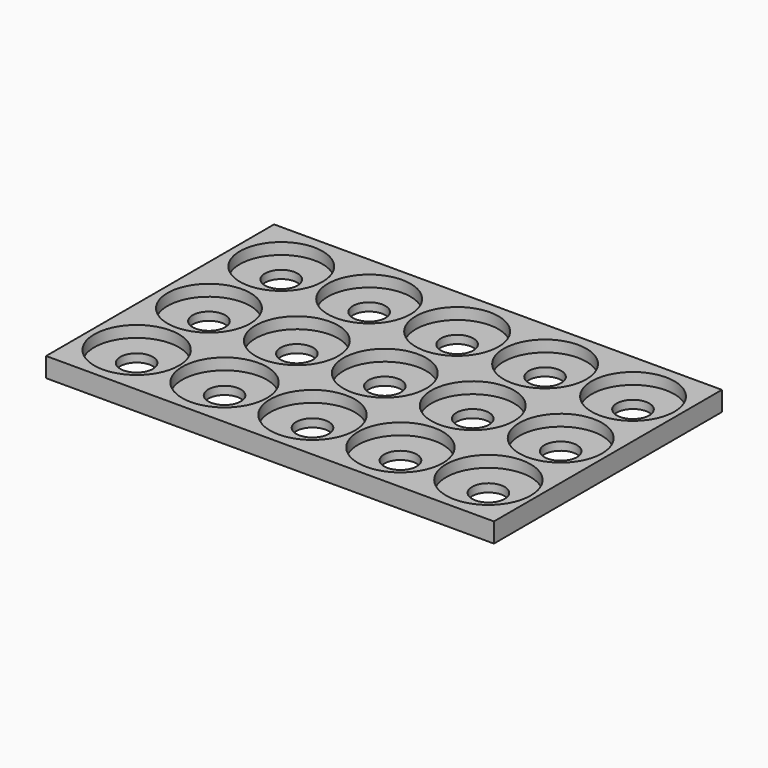
from build123d import *

# Parameters (mm, degrees)
F0_W     = 275
F0_H     = 175
F1_DEPTH = 12
F2_R     = 25.4
F2_R_2   = 10
F2_R_3   = 26
F3_DEPTH = 7
F4_DEPTH = 25


with BuildPart() as f1:
    # F0 (on Top) → F1 (new body)
    with BuildSketch(Plane.XY):
        with Locations((79.5600198209, 48.7740390003)):
            Rectangle(F0_W, F0_H)
    extrude(amount=F1_DEPTH)

    # F2 (on face) → F3 (cut)
    with BuildSketch(Plane.XY.offset(12)):
        with Locations((-27.9399801791, 104.2740390003)):
            Circle(F2_R)
        with Locations((-27.9399801791, 104.2740390003)):
            Circle(F2_R_2, mode=Mode.SUBTRACT)
        with Locations((-27.9399801791, 48.7740390003)):
            Circle(F2_R)
        with Locations((-27.9399801791, 48.7740390003)):
            Circle(F2_R_2, mode=Mode.SUBTRACT)
        with Locations((-27.9399801791, -6.7259609997)):
            Circle(F2_R_3)
        with Locations((-27.9399801791, -6.7259609997)):
            Circle(F2_R_2, mode=Mode.SUBTRACT)
        with Locations((26.0600198209, -6.7259609997)):
            Circle(F2_R_3)
        with Locations((26.0600198209, -6.7259609997)):
            Circle(F2_R_2, mode=Mode.SUBTRACT)
        with Locations((26.0600198209, 48.7740390003)):
            Circle(F2_R)
        with Locations((26.0600198209, 48.7740390003)):
            Circle(F2_R_2, mode=Mode.SUBTRACT)
        with Locations((26.0600198209, 104.2740390003)):
            Circle(F2_R)
        with Locations((26.0600198209, 104.2740390003)):
            Circle(F2_R_2, mode=Mode.SUBTRACT)
        with Locations((80.0600198209, 104.2740390003)):
            Circle(F2_R)
        with Locations((80.0600198209, 104.2740390003)):
            Circle(F2_R_2, mode=Mode.SUBTRACT)
        with Locations((80.0600198209, 48.7740390003)):
            Circle(F2_R)
        with Locations((80.0600198209, 48.7740390003)):
            Circle(F2_R_2, mode=Mode.SUBTRACT)
        with Locations((80.0600198209, -6.7259609997)):
            Circle(F2_R_3)
        with Locations((80.0600198209, -6.7259609997)):
            Circle(F2_R_2, mode=Mode.SUBTRACT)
        with Locations((134.0600198209, -6.7259608768)):
            Circle(F2_R_3)
        with Locations((134.0600198209, -6.7259608768)):
            Circle(F2_R_2, mode=Mode.SUBTRACT)
        with Locations((134.0600198209, 48.7740391232)):
            Circle(F2_R)
        with Locations((134.0600198209, 48.7740391232)):
            Circle(F2_R_2, mode=Mode.SUBTRACT)
        with Locations((134.0600198209, 104.2740391232)):
            Circle(F2_R)
        with Locations((134.0600198209, 104.2740391232)):
            Circle(F2_R_2, mode=Mode.SUBTRACT)
        with Locations((188.0600198209, 104.2740390003)):
            Circle(F2_R)
        with Locations((188.0600198209, 104.2740390003)):
            Circle(F2_R_2, mode=Mode.SUBTRACT)
        with Locations((188.0600198209, 48.7740390003)):
            Circle(F2_R)
        with Locations((188.0600198209, 48.7740390003)):
            Circle(F2_R_2, mode=Mode.SUBTRACT)
        with Locations((188.0600198209, -6.7259609997)):
            Circle(F2_R_3)
        with Locations((188.0600198209, -6.7259609997)):
            Circle(F2_R_2, mode=Mode.SUBTRACT)
    extrude(amount=-F3_DEPTH, mode=Mode.SUBTRACT)

    # F4 (cut): faces of the model
    f4_faces = [f1.faces().sort_by_distance(p)[0] for p in [
        (-27.9399801791, 104.2740390003, 12),
        (26.0600198209, 104.2740390003, 12),
        (80.0600198209, 104.2740390003, 12),
        (134.0600198209, 104.2740391232, 12),
        (188.0600198209, 104.2740390003, 12),
        (188.0600198209, 48.7740390003, 12),
        (134.0600198209, 48.7740391232, 12),
        (80.0600198209, 48.7740390003, 12),
        (26.0600198209, 48.7740390003, 12),
        (-27.9399801791, 48.7740390003, 12),
        (-27.9399801791, -6.7259609997, 12),
        (26.0600198209, -6.7259609997, 12),
        (80.0600198209, -6.7259609997, 12),
        (134.0600198209, -6.7259608768, 12),
        (188.0600198209, -6.7259609997, 12),
    ]]
    extrude(f4_faces, amount=-F4_DEPTH, mode=Mode.SUBTRACT)


solid = f1.part
